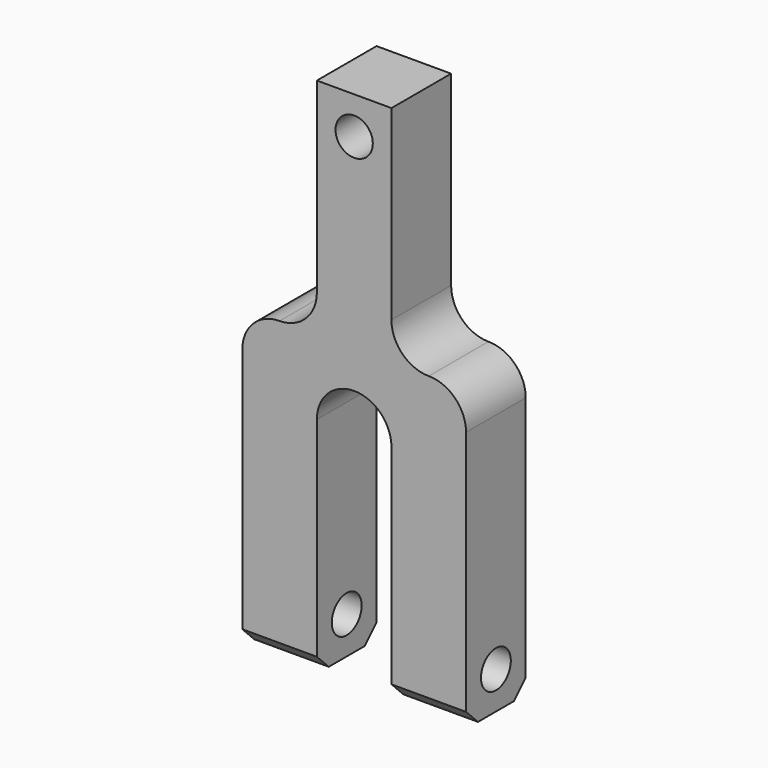
from build123d import *

# Parameters (mm, degrees)
F0_R     = 6.35
F1_DEPTH = 12.7
F2_R     = 6.35
F3_DEPTH = 76.2
F4_SIZE  = 5.08


with BuildPart() as f1:
    # F0 (on Front) → F1 (new body, symmetric)
    with BuildSketch(Plane.XZ):
        with BuildLine():
            Line((12.7, 53.440262), (-12.7, 53.440262))
            Line((-12.7, 53.440262), (-12.7, -10.059738))
            ThreePointArc((-12.7, -10.059738), (-16.419744, -19.039994), (-25.4, -22.759738))
            ThreePointArc((-25.4, -22.759738), (-34.380256, -26.479482), (-38.1, -35.459738))
            Line((-38.1, -35.459738), (-38.1, -124.359738))
            Line((-38.1, -124.359738), (-12.7, -124.359738))
            Line((-12.7, -124.359738), (-12.7, -48.159738))
            ThreePointArc((-12.7, -48.159738), (0, -35.459738), (12.7, -48.159738))
            Line((12.7, -48.159738), (12.7, -124.359738))
            Line((12.7, -124.359738), (38.1, -124.359738))
            Line((38.1, -124.359738), (38.1, -35.459738))
            ThreePointArc((38.1, -35.459738), (34.380256, -26.479482), (25.4, -22.759738))
            ThreePointArc((25.4, -22.759738), (16.419744, -19.039994), (12.7, -10.059738))
            Line((12.7, -10.059738), (12.7, 53.440262))
        make_face()
        with Locations((0, 40.740262)):
            Circle(F0_R, mode=Mode.SUBTRACT)
    extrude(amount=F1_DEPTH, both=True)

    # F2 (on face) → F3 (cut)
    with BuildSketch(Plane(origin=(-38.1, 0, 0), x_dir=(0, -1, 0), z_dir=(-1, 0, 0))):
        with Locations((0, -111.659738)):
            Circle(F2_R)
    extrude(amount=-F3_DEPTH, mode=Mode.SUBTRACT)

    # F4
    f4_edges = [f1.edges().sort_by_distance(p)[0] for p in [
        (-25.4, -12.7, -124.359738),
        (25.4, -12.7, -124.359738),
        (25.4, 12.7, -124.359738),
        (-25.4, 12.7, -124.359738),
    ]]
    chamfer(f4_edges, length=F4_SIZE)


solid = f1.part
